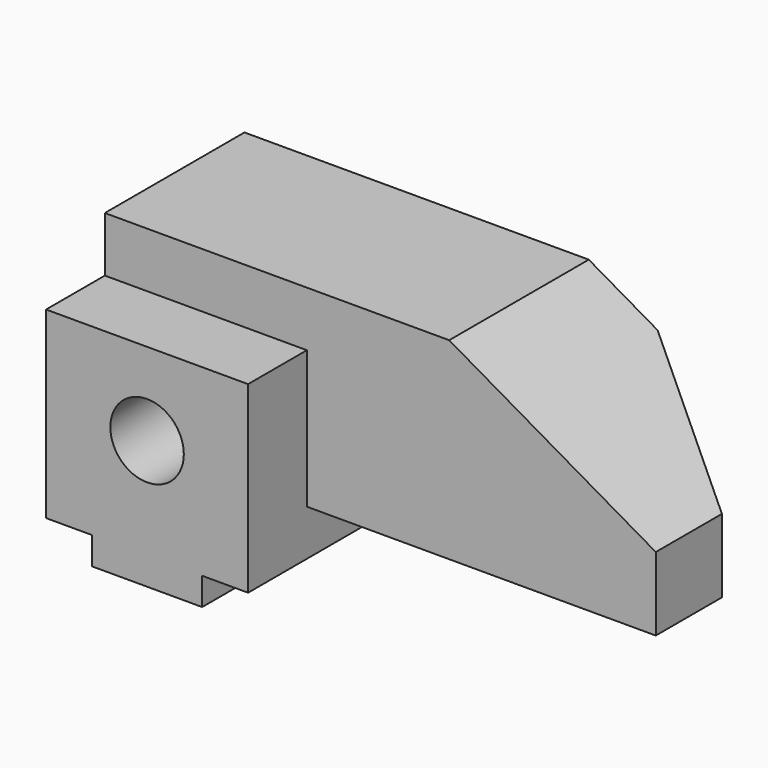
from build123d import *

# Parameters (mm, degrees)
F1_DEPTH = 54
F3_DEPTH = 16
F4_R     = 8
F5_DEPTH = 22
F7_DEPTH = 42.001


with BuildPart() as f1:
    # F0 (on Front) → F1 (new body)
    with BuildSketch(Plane.XZ):
        Polygon((0, 6), (0, 0), (24, 0), (24, 6), (34, 6), (34, 16), (110, 16), (110, 32.019238), (65, 58), (-10, 58), (-10, 6), align=None)
    extrude(amount=F1_DEPTH)

    # F2 (on face) → F3 (cut)
    with BuildSketch(Plane.XZ.offset(54)):
        Polygon((65, 58), (-10, 58), (-10, 46), (34, 46), (34, 16), (110, 16), (110, 32.019238), align=None)
    extrude(amount=-F3_DEPTH, mode=Mode.SUBTRACT)

    # F4 (on face) → F5 (cut)
    with BuildSketch(Plane.XZ.offset(54)):
        with Locations((12, 28)):
            Circle(F4_R)
    extrude(amount=-F5_DEPTH, mode=Mode.SUBTRACT)

    # F6 (on face) → F7 (cut, through all)
    with BuildSketch(Plane(origin=(0, 0, 16), x_dir=(1, 0, 0), z_dir=(0, 0, -1))):
        Polygon((110, 20), (80, 0), (110, 0), align=None)
    extrude(amount=-F7_DEPTH, mode=Mode.SUBTRACT)


solid = f1.part
